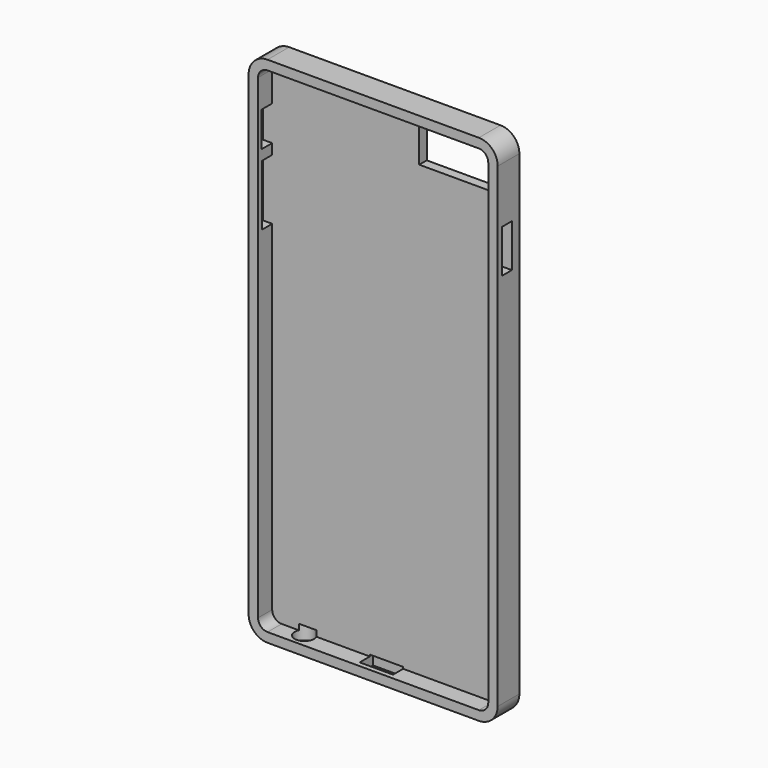
from build123d import *

# Parameters (mm, degrees)
F0_W      = 67.1
F0_H      = 138.3
F1_DEPTH  = 3.65
F2_R      = 5.08
F3_T      = -2.54
F4_W      = 19.863441
F4_H      = 9.705244
F5_DEPTH  = 12.5
F6_W      = 8.977096
F6_H      = 4.488549
F7_DEPTH  = 3
F8_W      = 3.636948
F8_H      = 9.400487
F8_W_2    = 3.415418
F8_H_2    = 16.339872
F9_DEPTH  = 8.3
F10_W     = 3.30219
F10_H     = 11.60476
F11_DEPTH = 4.7
F13_R     = 2.60328
F14_DEPTH = 4.1


with BuildPart() as f1:
    # F0 (on Front) → F1 (new body, symmetric)
    with BuildSketch(Plane.XZ):
        Rectangle(F0_W, F0_H)
    extrude(amount=F1_DEPTH, both=True)

    # F2
    f2_edges = [f1.edges().sort_by_distance(p)[0] for p in [
        (-33.55, 0, 69.15),
        (33.55, 0, 69.15),
        (33.55, 0, -69.15),
        (-33.55, 0, -69.15),
    ]]
    fillet(f2_edges, radius=F2_R)

    # F3
    f3_openings = [f1.faces().sort_by_distance(p)[0] for p in [
        (0, -3.65, 0),
    ]]
    offset(amount=F3_T, openings=f3_openings)

    # F4 (on face) → F5 (cut, symmetric)
    with BuildSketch(Plane(origin=(0, 3.65, 0), x_dir=(-1, 0, 0), z_dir=(0, 1, 0))):
        with Locations((-18.538279, 59.217378)):
            Rectangle(F4_W, F4_H)
    extrude(amount=F5_DEPTH, both=True, mode=Mode.SUBTRACT)

    # F6 (on face) → F7 (cut)
    with BuildSketch(Plane(origin=(0, 0, -69.15), x_dir=(1, 0, 0), z_dir=(0, 0, -1))):
        with Locations((-0.205018, 0.07035)):
            Rectangle(F6_W, F6_H)
    extrude(amount=-F7_DEPTH, mode=Mode.SUBTRACT)

    # F8 (on face) → F9 (cut, symmetric)
    with BuildSketch(Plane.YZ.offset(-31.01)):
        with Locations((-0.708474, 51.305823)):
            Rectangle(F8_W, F8_H)
        with Locations((-0.597709, 35.637243)):
            Rectangle(F8_W_2, F8_H_2)
    extrude(amount=F9_DEPTH, both=True, mode=Mode.SUBTRACT)

    # F10 (on face) → F11 (cut, symmetric)
    with BuildSketch(Plane(origin=(31.01, 0, 0), x_dir=(0, -1, 0), z_dir=(-1, 0, 0))):
        with Locations((0.541095, 43.273276)):
            Rectangle(F10_W, F10_H)
    extrude(amount=F11_DEPTH, both=True, mode=Mode.SUBTRACT)

    # F13 (on face) → F14 (cut, symmetric)
    with BuildSketch(Plane(origin=(0, 0, -69.15), x_dir=(1, 0, 0), z_dir=(0, 0, -1))):
        with Locations((-21.467019, 0)):
            Circle(F13_R)
    extrude(amount=F14_DEPTH, both=True, mode=Mode.SUBTRACT)


solid = f1.part
